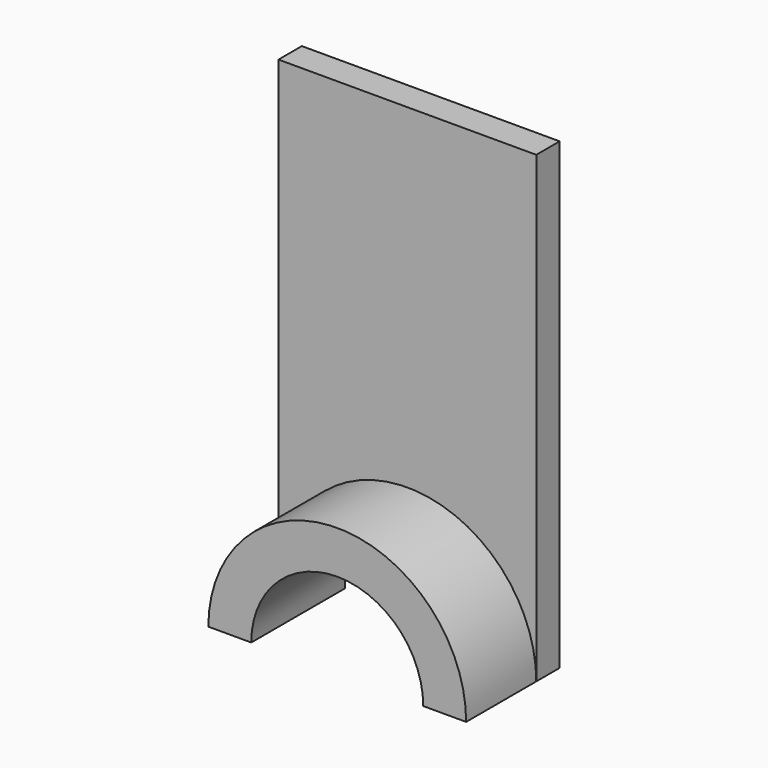
from build123d import *

# Parameters (mm, degrees)
F1_W     = 112.0290251324
F1_H     = 201.4646567404
F2_DEPTH = 12.7
F3_DEPTH = 50.8
F4_DEPTH = 25.4


with BuildPart() as f2:
    # F1 (on Front) → F2 (new body)
    with BuildSketch(Plane.XZ):
        with Locations((0, 100.7323283702)):
            Rectangle(F1_W, F1_H)
    extrude(amount=F2_DEPTH)

    # F0 (on Front) → F3 (join)
    with BuildSketch(Plane.XZ):
        with BuildLine():
            ThreePointArc((-37.3730720306, 0), (0, 37.3730720306), (37.3730720306, 0))
            Line((37.3730720306, 0), (56.0145125662, 0))
            ThreePointArc((56.0145125662, 0), (0, 56.0145125662), (-56.0145125662, 0))
            Line((-56.0145125662, 0), (-37.3730720306, 0))
        make_face()
    extrude(amount=F3_DEPTH)

    # F4 (cut): a face of the model
    f4_faces = [f2.faces().sort_by_distance(p)[0] for p in [
        (0, -12.7, 15.8616244059),
    ]]
    extrude(f4_faces, amount=-F4_DEPTH, mode=Mode.SUBTRACT)


solid = f2.part
